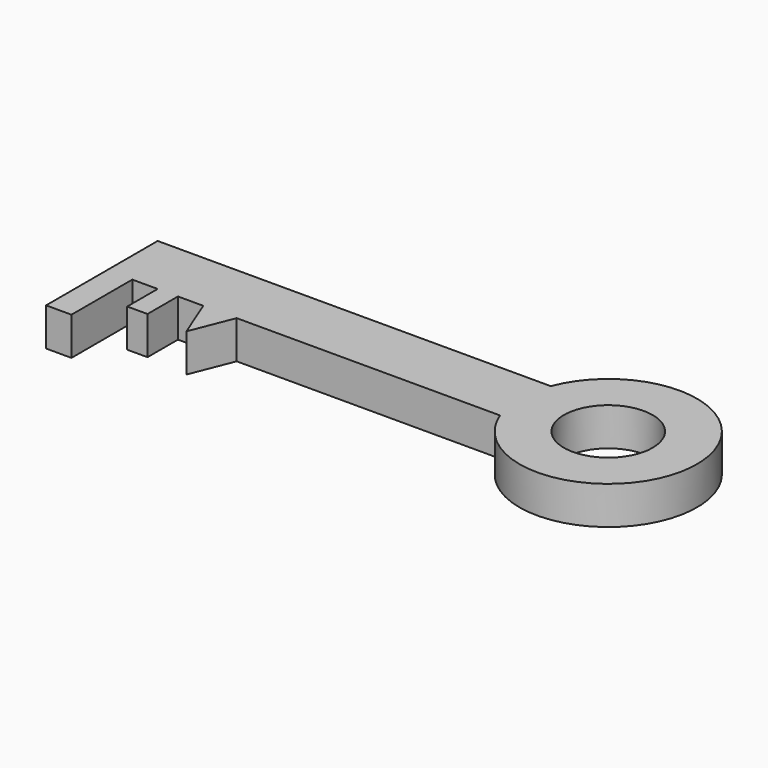
from build123d import *

# Parameters (mm, degrees)
F0_R     = 17.5
F1_DEPTH = 15


with BuildPart() as f1:
    # F0 (on Top) → F1 (new body)
    with BuildSketch(Plane.XY):
        with BuildLine():
            Line((55.543554, 19.412428), (-99.456446, 19.412428))
            Line((-99.456446, 19.412428), (-99.456446, -5.587572))
            Line((-99.456446, -5.587572), (-99.456446, -35.587572))
            Line((-99.456446, -35.587572), (-89.456446, -35.587572))
            Line((-89.456446, -35.587572), (-89.456446, -5.587572))
            Line((-89.456446, -5.587572), (-79.456446, -5.587572))
            Line((-79.456446, -5.587572), (-79.456446, -20.587572))
            Line((-79.456446, -20.587572), (-71.456446, -20.587572))
            Line((-71.456446, -20.587572), (-71.456446, -5.587572))
            Line((-71.456446, -5.587572), (-61.456446, -5.587572))
            Line((-61.456446, -5.587572), (-54.882035, -22.152904))
            Line((-54.882035, -22.152904), (-48.307624, -5.587572))
            Line((-48.307624, -5.587572), (55.543554, -5.587572))
            ThreePointArc((55.543554, -5.587572), (123.235296, 6.912428), (55.543554, 19.412428))
        make_face()
        with Locations((88.235296, 6.912428)):
            Circle(F0_R, mode=Mode.SUBTRACT)
    extrude(amount=F1_DEPTH)


solid = f1.part
